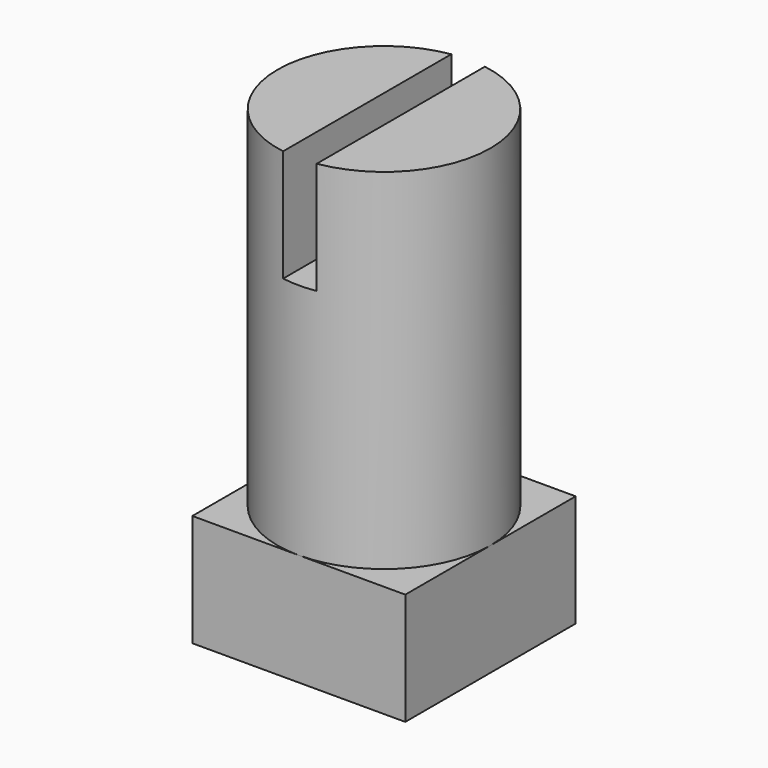
from build123d import *

# Parameters (mm, degrees)
F0_R     = 4.75
F1_DEPTH = 20.6
F3_W     = 1.5
F3_H     = 10.714468
F4_DEPTH = 5
F5_W     = 9.5
F5_H     = 9.5
F6_DEPTH = 5


with BuildPart() as f1:
    # F0 (on Top) → F1 (new body)
    with BuildSketch(Plane.XY):
        Circle(F0_R)
    extrude(amount=F1_DEPTH)

    # F3 (on offset) → F4 (cut)
    with BuildSketch(Plane.XY.offset(20.6)):
        Rectangle(F3_W, F3_H)
    extrude(amount=-F4_DEPTH, mode=Mode.SUBTRACT)

    # F5 (on Top) → F6 (join)
    with BuildSketch(Plane.XY):
        Rectangle(F5_W, F5_H)
    extrude(amount=F6_DEPTH)


solid = f1.part
